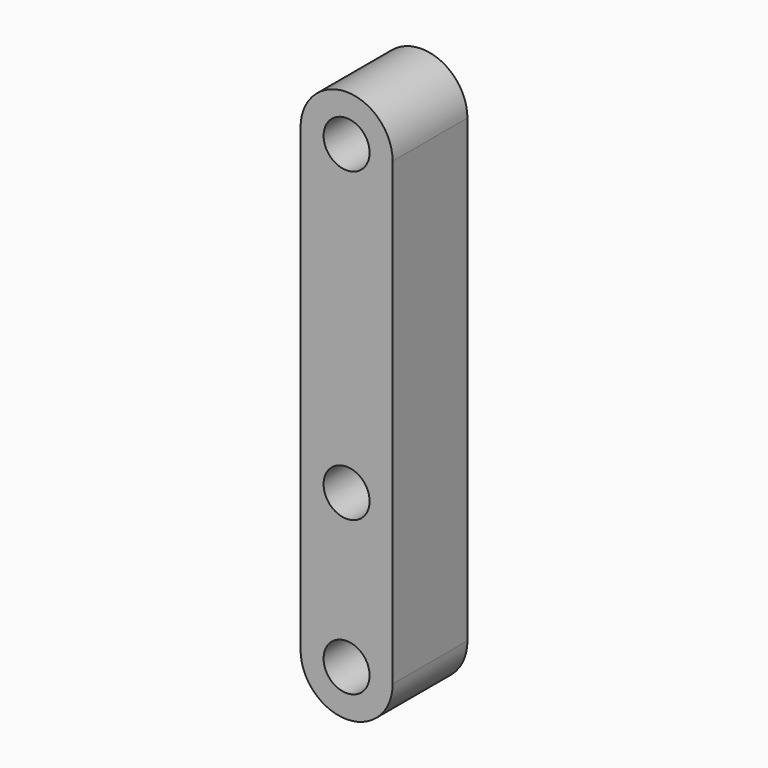
from build123d import *

# Parameters (mm, degrees)
F0_R     = 3.75
F1_DEPTH = 15.24


with BuildPart() as f1:
    # F0 (on Front) → F1 (new body)
    with BuildSketch(Plane.XZ):
        with BuildLine():
            Line((7.5, 0), (7.5, 50))
            ThreePointArc((7.5, 50), (0, 42.5), (-7.5, 50))
            Line((-7.5, 50), (-7.5, 6.7e-09))
            ThreePointArc((-7.5, 6.7e-09), (3.4e-09, 7.5), (7.5, 0))
        make_face()
        with BuildLine():
            ThreePointArc((-7.5, 6.7e-09), (-3.4e-09, -7.5), (7.5, 0))
            ThreePointArc((7.5, 0), (3.4e-09, 7.5), (-7.5, 6.7e-09))
        make_face()
        Circle(F0_R, mode=Mode.SUBTRACT)
        with BuildLine():
            Line((7.5, -25), (7.5, 0))
            ThreePointArc((7.5, 0), (-3.4e-09, -7.5), (-7.5, 6.7e-09))
            Line((-7.5, 6.7e-09), (-7.5, -25))
            ThreePointArc((-7.5, -25), (0, -17.5), (7.5, -25))
        make_face()
        with BuildLine():
            ThreePointArc((-7.5, -25), (0, -32.5), (7.5, -25))
            ThreePointArc((7.5, -25), (0, -17.5), (-7.5, -25))
        make_face()
        with Locations((0, -25)):
            Circle(F0_R, mode=Mode.SUBTRACT)
        with BuildLine():
            ThreePointArc((-7.5, 50), (0, 42.5), (7.5, 50))
            ThreePointArc((7.5, 50), (0, 57.5), (-7.5, 50))
        make_face()
        with Locations((0, 50)):
            Circle(F0_R, mode=Mode.SUBTRACT)
    extrude(amount=F1_DEPTH)


solid = f1.part
